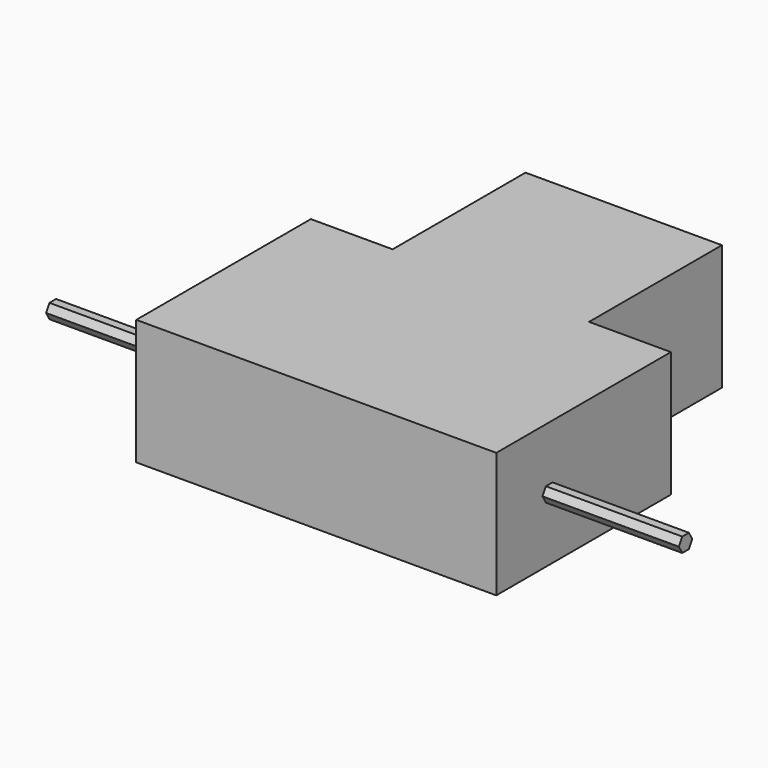
from build123d import *

# Parameters (mm, degrees)
F0_W     = 36
F0_H     = 30.441777
F1_DEPTH = 23
F3_DEPTH = 25
F5_DEPTH = 91


with BuildPart() as f1:
    # F0 (on Top) → F1 (new body)
    with BuildSketch(Plane.XY):
        with Locations((0, 15.220888)):
            Rectangle(F0_W, F0_H)
        Polygon((18, 0), (-18, 0), (-33, 0), (-33, -40), (33, -40), (33, 0), align=None)
    extrude(amount=F1_DEPTH)

    # F2 (on face) → F3 (join)
    with BuildSketch(Plane.YZ.offset(33)):
        Polygon((-27.114989, 13), (-28.644967, 13), (-29.409956, 11.675), (-28.644967, 10.35), (-27.114989, 10.35), (-26.35, 11.675), align=None)
    extrude(amount=F3_DEPTH)

    # F4 (on face) → F5 (join)
    with BuildSketch(Plane.YZ.offset(33)):
        Polygon((-27.114989, 13), (-28.644967, 13), (-29.409956, 11.675), (-28.644967, 10.35), (-27.114989, 10.35), (-26.35, 11.675), align=None)
    extrude(amount=-F5_DEPTH)


solid = f1.part
